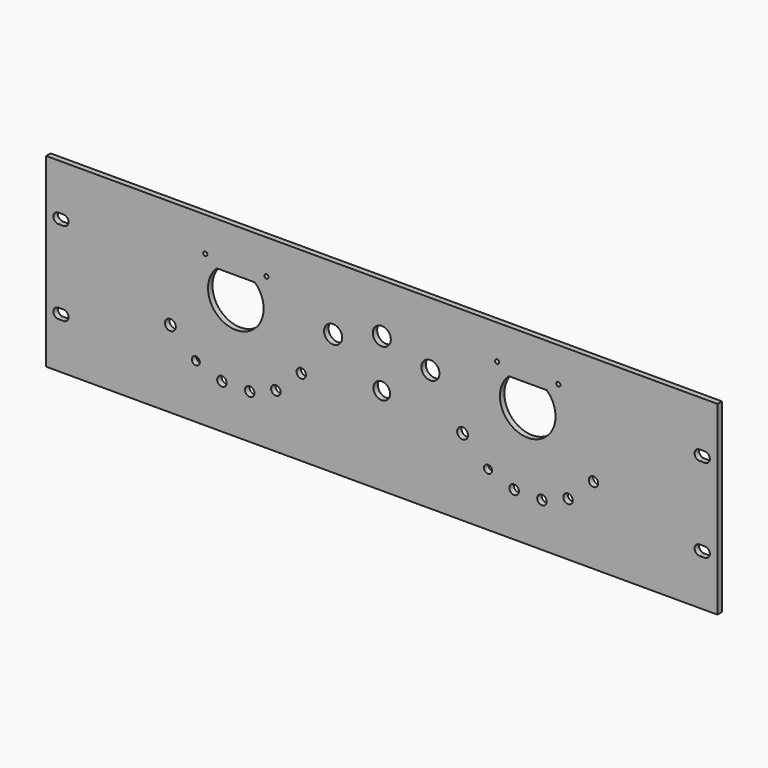
from build123d import *

# Parameters (mm, degrees)
F0_W     = 483
F0_H     = 133.5
F0_R     = 3.4
F0_R_2   = 2.9
F0_R_3   = 3.9
F0_R_4   = 6
F0_R_5   = 6.5
F0_R_6   = 1.5
F1_DEPTH = 4


with BuildPart() as f1:
    # F0 (on Front) → F1 (new body)
    with BuildSketch(Plane.XZ):
        Rectangle(F0_W, F0_H)
        with Locations((-115, -34.873758)):
            Circle(F0_R, mode=Mode.SUBTRACT)
        with Locations((-95, -34.873758)):
            Circle(F0_R, mode=Mode.SUBTRACT)
        with BuildLine():
            ThreePointArc((-228.996942, -33.75), (-229.005972, -33.750011), (-229.015002, -33.75))
            Line((-229.015002, -33.75), (-232.655996, -33.750011))
            ThreePointArc((-232.655996, -33.750011), (-236.306007, -30.113226), (-232.682474, -26.450059))
            ThreePointArc((-232.682474, -26.450059), (-232.656007, -26.449963), (-232.62954, -26.450059))
            Line((-232.62954, -26.450059), (-229.03245, -26.450059))
            ThreePointArc((-229.03245, -26.450059), (-229.005983, -26.449963), (-228.979516, -26.450059))
            ThreePointArc((-228.979516, -26.450059), (-225.35597, -30.1087), (-228.996942, -33.75))
        make_face(mode=Mode.SUBTRACT)
        with Locations((-133.79017, -28.023247)):
            Circle(F0_R_2, mode=Mode.SUBTRACT)
        with Locations((-152.08697, -11.251019)):
            Circle(F0_R_3, mode=Mode.SUBTRACT)
        with Locations((-76.20983, -28.023247)):
            Circle(F0_R, mode=Mode.SUBTRACT)
        with Locations((-57.91303, -11.251019)):
            Circle(F0_R, mode=Mode.SUBTRACT)
        with Locations((95.220747, -35.135962)):
            Circle(F0_R, mode=Mode.SUBTRACT)
        with Locations((115.220747, -35.135962)):
            Circle(F0_R, mode=Mode.SUBTRACT)
        with Locations((76.430577, -28.285451)):
            Circle(F0_R_2, mode=Mode.SUBTRACT)
        with Locations((58.133777, -11.513223)):
            Circle(F0_R_3, mode=Mode.SUBTRACT)
        with Locations((0, -3.5)):
            Circle(F0_R_4, mode=Mode.SUBTRACT)
        with Locations((134.010917, -28.285451)):
            Circle(F0_R, mode=Mode.SUBTRACT)
        with BuildLine():
            ThreePointArc((232.38433, -33.749906), (232.35606, -33.750016), (232.32779, -33.749908))
            Line((232.32779, -33.749908), (228.706032, -33.750016))
            ThreePointArc((228.706032, -33.750016), (225.055923, -30.114233), (228.677543, -26.450071))
            ThreePointArc((228.677543, -26.450071), (228.705923, -26.449961), (228.734302, -26.450071))
            Line((228.734302, -26.450071), (232.327571, -26.450071))
            ThreePointArc((232.327571, -26.450071), (232.35595, -26.449961), (232.38433, -26.450071))
            ThreePointArc((232.38433, -26.450071), (236.005978, -30.099988), (232.38433, -33.749906))
        make_face(mode=Mode.SUBTRACT)
        with Locations((152.307717, -11.513223)):
            Circle(F0_R, mode=Mode.SUBTRACT)
        with BuildLine():
            ThreePointArc((-228.9776, 26.450165), (-229.00587, 26.450055), (-229.03414, 26.450163))
            Line((-229.03414, 26.450163), (-232.655898, 26.450055))
            ThreePointArc((-232.655898, 26.450055), (-236.306007, 30.085838), (-232.684387, 33.75))
            ThreePointArc((-232.684387, 33.75), (-232.656007, 33.75011), (-232.627628, 33.75))
            Line((-232.627628, 33.75), (-229.034359, 33.75))
            ThreePointArc((-229.034359, 33.75), (-229.005979, 33.75011), (-228.9776, 33.75))
            ThreePointArc((-228.9776, 33.75), (-225.355952, 30.100083), (-228.9776, 26.450165))
        make_face(mode=Mode.SUBTRACT)
        with BuildLine():
            ThreePointArc((-91.331057, 35.5), (-105, 0.9), (-118.668943, 35.5))
            Line((-118.668943, 35.5), (-91.331057, 35.5))
        make_face(mode=Mode.SUBTRACT)
        with Locations((-35, 20.9)):
            Circle(F0_R_5, mode=Mode.SUBTRACT)
        with Locations((0, 31.118619)):
            Circle(F0_R_5, mode=Mode.SUBTRACT)
        with Locations((-127, 42)):
            Circle(F0_R_6, mode=Mode.SUBTRACT)
        with Locations((-83, 42)):
            Circle(F0_R_6, mode=Mode.SUBTRACT)
        with Locations((35, 20.9)):
            Circle(F0_R_5, mode=Mode.SUBTRACT)
        with BuildLine():
            ThreePointArc((118.66894, 35.5), (104.999997, 0.9), (91.331054, 35.5))
            Line((91.331054, 35.5), (118.66894, 35.5))
        make_face(mode=Mode.SUBTRACT)
        with BuildLine():
            ThreePointArc((232.38433, 26.450165), (232.35606, 26.450055), (232.32779, 26.450163))
            Line((232.32779, 26.450163), (228.706032, 26.450055))
            ThreePointArc((228.706032, 26.450055), (225.055923, 30.085838), (228.677543, 33.75))
            ThreePointArc((228.677543, 33.75), (228.705923, 33.75011), (228.734302, 33.75))
            Line((228.734302, 33.75), (232.327571, 33.75))
            ThreePointArc((232.327571, 33.75), (232.35595, 33.75011), (232.38433, 33.75))
            ThreePointArc((232.38433, 33.75), (236.005978, 30.100083), (232.38433, 26.450165))
        make_face(mode=Mode.SUBTRACT)
        with Locations((83, 42)):
            Circle(F0_R_6, mode=Mode.SUBTRACT)
        with Locations((127, 42)):
            Circle(F0_R_6, mode=Mode.SUBTRACT)
    extrude(amount=F1_DEPTH)


solid = f1.part
